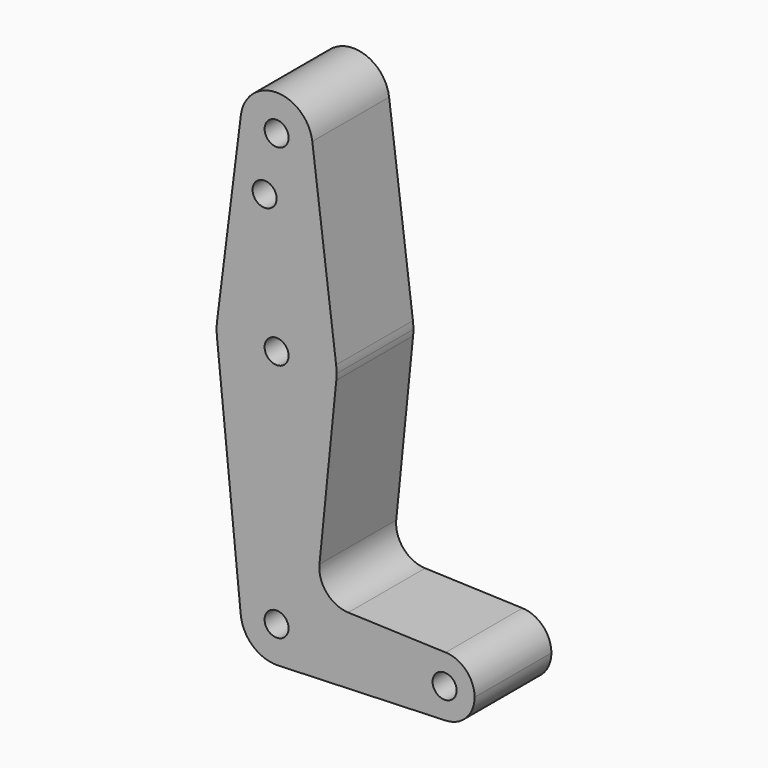
from build123d import *

# Parameters (mm, degrees)
F0_R     = 3.175
F1_DEPTH = 3.048
F2_DEPTH = 25.4


with BuildPart() as f1:
    # F0 (on Front) → F1 (new body)
    with BuildSketch(Plane.XZ):
        with BuildLine():
            ThreePointArc((-9.450293, 51.990625), (-0.596483, 41.293695), (9.525, 50.8))
            ThreePointArc((9.525, 50.8), (9.506305, 51.396483), (9.450293, 51.990625))
            ThreePointArc((9.450293, 51.990625), (0, 60.325), (-9.450293, 51.990625))
        make_face()
        with Locations((0, 50.8)):
            Circle(F0_R, mode=Mode.SUBTRACT)
        with BuildLine():
            ThreePointArc((9.525, -63.5), (-0.476848, -53.986944), (-9.477255, -64.4525))
            ThreePointArc((-9.477255, -64.4525), (-6.262383, -70.67692), (0.340179, -73.018923))
            ThreePointArc((0.340179, -73.018923), (6.854408, -70.113827), (9.525, -63.5))
        make_face()
        with Locations((0, -63.5)):
            Circle(F0_R, mode=Mode.SUBTRACT)
        with BuildLine():
            ThreePointArc((44.733482, -55.567564), (36.5125, -63.5), (44.733482, -71.432436))
            ThreePointArc((44.733482, -71.432436), (50.162007, -69.011523), (52.3875, -63.5))
            ThreePointArc((52.3875, -63.5), (50.162007, -57.988477), (44.733482, -55.567564))
        make_face()
        with Locations((44.45, -63.5)):
            Circle(F0_R, mode=Mode.SUBTRACT)
        with BuildLine():
            ThreePointArc((9.450293, 51.990625), (9.506305, 51.396483), (9.525, 50.8))
            ThreePointArc((9.525, 50.8), (-0.596483, 41.293695), (-9.450293, 51.990625))
            Line((-9.450293, 51.990625), (-15.750488, 1.984375))
            ThreePointArc((-15.750488, 1.984375), (0, 15.875), (15.750488, 1.984375))
            Line((15.750488, 1.984375), (9.450293, 51.990625))
        make_face()
        with Locations((-3.175, 35.60644)):
            Circle(F0_R, mode=Mode.SUBTRACT)
        with BuildLine():
            ThreePointArc((15.875, 0), (15.843841, 0.994139), (15.750488, 1.984375))
            ThreePointArc((15.750488, 1.984375), (0, 15.875), (-15.750488, 1.984375))
            ThreePointArc((-15.750488, 1.984375), (-15.873744, 0.199705), (-15.795426, -1.5875))
            ThreePointArc((-15.795426, -1.5875), (0, -15.875), (15.795426, -1.5875))
            ThreePointArc((15.795426, -1.5875), (15.855094, -0.794747), (15.875, 0))
        make_face()
        Circle(F0_R, mode=Mode.SUBTRACT)
        with BuildLine():
            ThreePointArc((15.795426, -1.5875), (0, -15.875), (-15.795426, -1.5875))
            Line((-15.795426, -1.5875), (-9.477255, -64.4525))
            ThreePointArc((-9.477255, -64.4525), (-0.476848, -53.986944), (9.525, -63.5))
            ThreePointArc((9.525, -63.5), (6.854408, -70.113827), (0.340179, -73.018923))
            Line((0.340179, -73.018923), (44.733482, -71.432436))
            ThreePointArc((44.733482, -71.432436), (36.5125, -63.5), (44.733482, -55.567564))
            Line((44.733482, -55.567564), (18.9676, -54.646766))
            ThreePointArc((18.9676, -54.646766), (13.2612, -51.928641), (11.341187, -45.906618))
            Line((11.341187, -45.906618), (15.795426, -1.5875))
        make_face()
    extrude(amount=F1_DEPTH)

    # F0 (on Front) → F2 (join)
    with BuildSketch(Plane.XZ):
        with BuildLine():
            ThreePointArc((-9.450293, 51.990625), (-0.596483, 41.293695), (9.525, 50.8))
            ThreePointArc((9.525, 50.8), (9.506305, 51.396483), (9.450293, 51.990625))
            ThreePointArc((9.450293, 51.990625), (0, 60.325), (-9.450293, 51.990625))
        make_face()
        with Locations((0, 50.8)):
            Circle(F0_R, mode=Mode.SUBTRACT)
        with BuildLine():
            ThreePointArc((9.450293, 51.990625), (9.506305, 51.396483), (9.525, 50.8))
            ThreePointArc((9.525, 50.8), (-0.596483, 41.293695), (-9.450293, 51.990625))
            Line((-9.450293, 51.990625), (-15.750488, 1.984375))
            ThreePointArc((-15.750488, 1.984375), (0, 15.875), (15.750488, 1.984375))
            Line((15.750488, 1.984375), (9.450293, 51.990625))
        make_face()
        with Locations((-3.175, 35.60644)):
            Circle(F0_R, mode=Mode.SUBTRACT)
        with BuildLine():
            ThreePointArc((15.875, 0), (15.843841, 0.994139), (15.750488, 1.984375))
            ThreePointArc((15.750488, 1.984375), (0, 15.875), (-15.750488, 1.984375))
            ThreePointArc((-15.750488, 1.984375), (-15.873744, 0.199705), (-15.795426, -1.5875))
            ThreePointArc((-15.795426, -1.5875), (0, -15.875), (15.795426, -1.5875))
            ThreePointArc((15.795426, -1.5875), (15.855094, -0.794747), (15.875, 0))
        make_face()
        Circle(F0_R, mode=Mode.SUBTRACT)
        with BuildLine():
            ThreePointArc((15.795426, -1.5875), (0, -15.875), (-15.795426, -1.5875))
            Line((-15.795426, -1.5875), (-9.477255, -64.4525))
            ThreePointArc((-9.477255, -64.4525), (-0.476848, -53.986944), (9.525, -63.5))
            ThreePointArc((9.525, -63.5), (6.854408, -70.113827), (0.340179, -73.018923))
            Line((0.340179, -73.018923), (44.733482, -71.432436))
            ThreePointArc((44.733482, -71.432436), (36.5125, -63.5), (44.733482, -55.567564))
            Line((44.733482, -55.567564), (18.9676, -54.646766))
            ThreePointArc((18.9676, -54.646766), (13.2612, -51.928641), (11.341187, -45.906618))
            Line((11.341187, -45.906618), (15.795426, -1.5875))
        make_face()
        with BuildLine():
            ThreePointArc((9.525, -63.5), (-0.476848, -53.986944), (-9.477255, -64.4525))
            ThreePointArc((-9.477255, -64.4525), (-6.262383, -70.67692), (0.340179, -73.018923))
            ThreePointArc((0.340179, -73.018923), (6.854408, -70.113827), (9.525, -63.5))
        make_face()
        with Locations((0, -63.5)):
            Circle(F0_R, mode=Mode.SUBTRACT)
        with BuildLine():
            ThreePointArc((44.733482, -55.567564), (36.5125, -63.5), (44.733482, -71.432436))
            ThreePointArc((44.733482, -71.432436), (50.162007, -69.011523), (52.3875, -63.5))
            ThreePointArc((52.3875, -63.5), (50.162007, -57.988477), (44.733482, -55.567564))
        make_face()
        with Locations((44.45, -63.5)):
            Circle(F0_R, mode=Mode.SUBTRACT)
    extrude(amount=F2_DEPTH)


solid = f1.part
